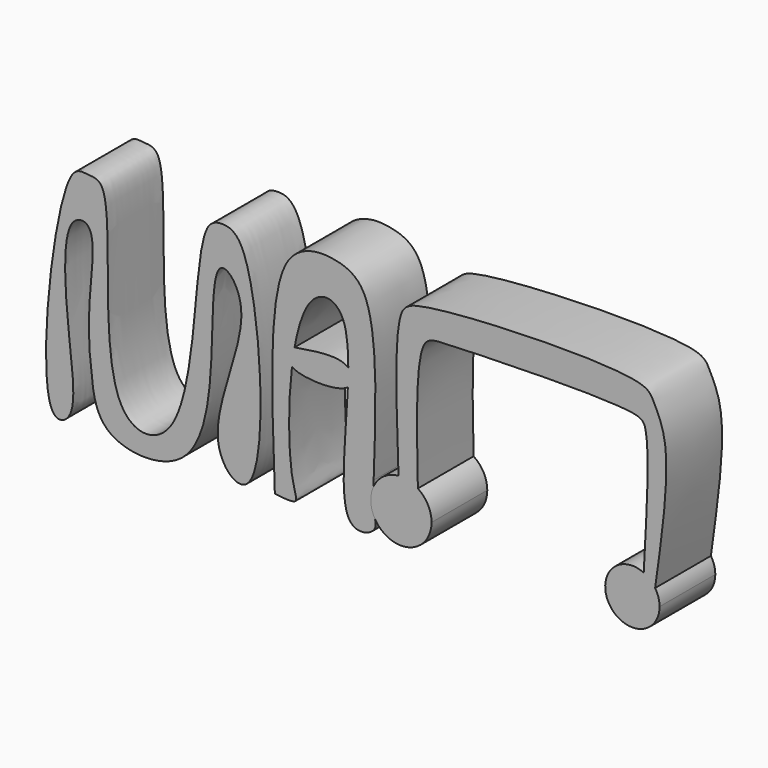
from build123d import *

# Parameters (mm, degrees)
F2_DEPTH = 17.78


with BuildPart() as f2:
    # F1 (on Front) → F2 (new body)
    with BuildSketch(Plane.XZ):
        with BuildLine():
            add(Edge.make_bspline(
                [(-71.9847455621, 0), (-76.2070547956, 6.8961533842), (-70.6906486516, 57.8745627014), (-63.2714090588, 55.9826647163), (-55.0627101064, 56.5420492879), (-62.3558227077, 1.8475951782), (-34.5364508928, 1.1723191666), (-36.5334378917, 54.5351013275), (-28.6665279391, 56.6653461249), (-19.7156643182, 54.3376410746), (-15.7014535082, -10.1592894706), (-35.86855794, 7.5142376112), (-18.8065325204, 36.8433939841), (-31.3648475798, 51.8935289317), (-30.8858573696, 25.2530368224), (-33.9590334855, -4.314190713), (-60.3026769364, -2.8241428236), (-62.2873349579, 12.5254450786), (-63.4700005185, 25.9955618087), (-60.1920474235, 45.8879050467), (-70.120398054, 45.4211628462), (-68.1730528802, 18.2911796201), (-65.3375171868, -0.2833222025), (-70.8562975285, -1.8430556114), (-71.9847455621, 0)],
                knots=[0, 0, 0, 0, 0.0804482391, 0.1036476719, 0.1265366756, 0.2016323851, 0.2397080846, 0.3148821651, 0.3397087766, 0.3685645866, 0.4469301325, 0.4804150813, 0.5429567799, 0.5760379913, 0.6240094853, 0.6818996094, 0.7280130002, 0.7667462577, 0.8097591567, 0.8548615374, 0.8763858627, 0.9316441306, 0.9784995243, 1, 1, 1, 1], degree=3))
        make_face()
    extrude(amount=F2_DEPTH)


with BuildPart() as f2b:
    # F1 (on Front) → F2, piece 2 (new body)
    with BuildSketch(Plane.XZ):
        with BuildLine():
            add(Edge.make_bspline(
                [(-15.3184877709, 0), (-15.3136672035, 0.0813770975), (-12.7167077526, 0.0406885487), (-10.1197483018, 0)],
                knots=[0.3977596645, 0.3977596645, 0.3977596645, 0.3977596645, 1, 1, 1, 1], degree=3))
            add(Edge.make_bspline(
                [(-10.1197483018, 0), (-10.8146586927, -0.5354692152), (-13.0665732318, -0.2677346076), (-15.3184877709, 0)],
                knots=[0.9085942035, 0.9085942035, 0.9085942035, 0.9085942035, 1, 1, 1, 1], degree=3))
        make_face()
        with BuildLine():
            add(Edge.make_bspline(
                [(-15.3184877709, 0), (-16.1562500531, 21.6970974449), (-17.3360686455, 52.2530672126), (-6.2241514195, 58.0647410129), (0.1291782051, 57.8151035789), (11.4020986356, 54.0630100429), (10.5116221301, 28.752621844), (9.8953982815, 11.2374322489)],
                knots=[0, 0, 0, 0, 0.3286248793, 0.4628016214, 0.5739442133, 0.7051626462, 1, 1, 1, 1], degree=3))
            add(Edge.make_bspline(
                [(-15.3184877709, 0), (-15.3136672035, 0.0813770975), (-12.7167077526, 0.0406885487), (-10.1197483018, 0)],
                knots=[0.3977596645, 0.3977596645, 0.3977596645, 0.3977596645, 1, 1, 1, 1], degree=3))
            add(Edge.make_bspline(
                [(-10.9519915207, 29.958335944), (-12.0329630557, 20.8084283228), (-11.7104031892, 4.0553342794), (-9.417019162, 0.5414940199), (-10.1197483018, 0)],
                knots=[0.6702748993, 0.6702748993, 0.6702748993, 0.6702748993, 0.8161599592, 0.9085942035, 0.9085942035, 0.9085942035, 0.9085942035], degree=3))
            add(Edge.make_bspline(
                [(-10.9519915196, 29.9583359533), (-11.7607523899, 30.688098266), (-11.1836866931, 31.6368510167), (-10.600891061, 32.5839482444)],
                knots=[0.8548872069, 0.8548872069, 0.8548872069, 0.8548872069, 1, 1, 1, 1], degree=3))
            add(Edge.make_bspline(
                [(-10.2864038827, 34.5036436078), (-10.3985016951, 33.8744018856), (-10.5032602095, 33.2337108197), (-10.600891061, 32.5839482444)],
                knots=[0.6454490314, 0.6454490314, 0.6454490314, 0.6454490314, 0.6561255465, 0.6561255465, 0.6561255465, 0.6561255465], degree=3))
            add(Edge.make_bspline(
                [(3.4270669285, 34.3979503247), (3.4373661098, 38.6499473), (2.5706685759, 48.5638878297), (-6.1179205413, 49.7749795649), (-9.3716203819, 39.6386229007), (-10.2864038827, 34.5036436078)],
                knots=[0.3753997332, 0.3753997332, 0.3753997332, 0.3753997332, 0.4434720474, 0.5583224437, 0.6454490314, 0.6454490314, 0.6454490314, 0.6454490314], degree=3))
            add(Edge.make_bspline(
                [(3.4270669285, 34.3979503247), (4.7632653734, 33.2673988044), (5.0199310422, 31.1890269734), (3.3181163263, 29.9576495769)],
                knots=[0.3301765693, 0.3301765693, 0.3301765693, 0.3301765693, 0.5180812717, 0.5180812717, 0.5180812717, 0.5180812717], degree=3))
            add(Edge.make_bspline(
                [(9.8953982815, 3.6992600653), (10.3281885841, 2.372697131), (11.3111755019, -0.6402955405), (-0.1944788593, -3.7937626729), (2.8156159564, 18.0942457152), (3.3181163263, 29.9576495769)],
                knots=[0, 0, 0, 0, 0.0771049292, 0.1751266982, 0.3525765375, 0.3525765375, 0.3525765375, 0.3525765375], degree=3))
            add(Edge.make_bspline(
                [(9.8953982815, 11.2374322489), (9.8953982815, 8.7247081877), (9.8953982815, 6.2119841265), (9.8953982815, 3.6992600653)],
                knots=[0, 0, 0, 0, 7.5381721836, 7.5381721836, 7.5381721836, 7.5381721836], degree=3))
        make_face()
        with BuildLine():
            add(Edge.make_bspline(
                [(-10.9519915196, 29.9583359533), (-11.7607523899, 30.688098266), (-11.1836866931, 31.6368510167), (-10.600891061, 32.5839482444)],
                knots=[0.8548872069, 0.8548872069, 0.8548872069, 0.8548872069, 1, 1, 1, 1], degree=3))
            add(Edge.make_bspline(
                [(-10.600891061, 32.5839482444), (-10.7302791006, 31.7228320648), (-10.8471483817, 30.8457830278), (-10.9519915207, 29.958335944)],
                knots=[0.6561255465, 0.6561255465, 0.6561255465, 0.6561255465, 0.6702748993, 0.6702748993, 0.6702748993, 0.6702748993], degree=3))
        make_face()
        with BuildLine():
            add(Edge.make_bspline(
                [(-10.600891061, 32.5839482444), (-10.7302791006, 31.7228320648), (-10.8471483817, 30.8457830278), (-10.9519915207, 29.958335944)],
                knots=[0.6561255465, 0.6561255465, 0.6561255465, 0.6561255465, 0.6702748993, 0.6702748993, 0.6702748993, 0.6702748993], degree=3))
            add(Edge.make_bspline(
                [(3.3181163263, 29.9576495769), (0.2677333955, 27.7504923837), (-9.0748623197, 28.2645619386), (-10.9519915196, 29.9583359533)],
                knots=[0.5180812717, 0.5180812717, 0.5180812717, 0.5180812717, 0.8548872069, 0.8548872069, 0.8548872069, 0.8548872069], degree=3))
            add(Edge.make_bspline(
                [(3.3181163263, 29.9576495769), (3.3827467837, 31.4834936652), (3.4236138326, 32.9723463883), (3.4270669285, 34.3979503247)],
                knots=[0.3525765375, 0.3525765375, 0.3525765375, 0.3525765375, 0.3753997332, 0.3753997332, 0.3753997332, 0.3753997332], degree=3))
            add(Edge.make_bspline(
                [(-10.2864038827, 34.5036436078), (-4.601868743, 35.4445811894), (1.0791671012, 36.3844978538), (3.4270669285, 34.3979503247)],
                knots=[0, 0, 0, 0, 0.3301765693, 0.3301765693, 0.3301765693, 0.3301765693], degree=3))
            add(Edge.make_bspline(
                [(-10.2864038827, 34.5036436078), (-10.3985016951, 33.8744018856), (-10.5032602095, 33.2337108197), (-10.600891061, 32.5839482444)],
                knots=[0.6454490314, 0.6454490314, 0.6454490314, 0.6454490314, 0.6561255465, 0.6561255465, 0.6561255465, 0.6561255465], degree=3))
        make_face()
        with BuildLine():
            add(Edge.make_bspline(
                [(3.3181163263, 29.9576495769), (3.3827467837, 31.4834936652), (3.4236138326, 32.9723463883), (3.4270669285, 34.3979503247)],
                knots=[0.3525765375, 0.3525765375, 0.3525765375, 0.3525765375, 0.3753997332, 0.3753997332, 0.3753997332, 0.3753997332], degree=3))
            add(Edge.make_bspline(
                [(3.4270669285, 34.3979503247), (4.7632653734, 33.2673988044), (5.0199310422, 31.1890269734), (3.3181163263, 29.9576495769)],
                knots=[0.3301765693, 0.3301765693, 0.3301765693, 0.3301765693, 0.5180812717, 0.5180812717, 0.5180812717, 0.5180812717], degree=3))
        make_face()
    extrude(amount=F2_DEPTH)


with BuildPart() as f2c:
    # F0 (on Front) → F2, piece 3 (new body)
    with BuildSketch(Plane.XZ):
        with BuildLine():
            ThreePointArc((16.2368878306, 14.2835204288), (11.6762163676, 0.8405781777), (24.6691973314, 6.5585206604))
            ThreePointArc((24.6691973314, 6.5585206604), (23.7395561688, 10.2400798741), (21.1735263147, 13.0389370914))
            ThreePointArc((21.1735263147, 13.0389370914), (18.8102546269, 14.0778997724), (16.2368878306, 14.2835204288))
        make_face()
        with BuildLine():
            ThreePointArc((16.2368878306, 14.2835204288), (18.8102546269, 14.0778997724), (21.1735263147, 13.0389370914))
            add(Edge.make_bspline(
                [(21.1735263147, 13.0389370914), (20.8445758455, 27.0118147807), (20.3842297593, 47.4488569608), (28.9295511699, 47.9655527144), (76.1915697286, 49.4080413712), (80.6232892088, 45.298183043), (79.5611963711, 26.4812434128), (78.8078997648, 12.8644679109)],
                knots=[0, 0, 0, 0, 0.2482769562, 0.3626552404, 0.6595270106, 0.7531552763, 1, 1, 1, 1], degree=3))
            ThreePointArc((78.8078997648, 12.8644679109), (80.4419335255, 11.8173191807), (81.7218765598, 10.3584385744))
            add(Edge.make_bspline(
                [(16.2368878306, 14.2835204288), (15.7119973323, 28.9056705981), (14.8129895894, 50.8981576536), (21.7435447042, 55.9648103112), (78.6973558369, 57.8238857545), (81.2873753472, 52.1002721608), (86.3062140691, 42.6990080462), (83.5062845238, 23.1771597097), (81.7218765598, 10.3584385744)],
                knots=[0.001542676, 0.001542676, 0.001542676, 0.001542676, 0.2210729991, 0.322956221, 0.5952140809, 0.6775530537, 0.7868353732, 1, 1, 1, 1], degree=3))
        make_face()
        with BuildLine():
            ThreePointArc((81.7218765598, 10.3584385744), (80.4419335255, 11.8173191807), (78.8078997648, 12.8644679109))
            ThreePointArc((78.8078997648, 12.8644679109), (70.0823297097, 2.8120205165), (82.8553740688, 6.5585668199))
            ThreePointArc((82.8553740688, 6.5585668199), (82.5659616482, 8.5412318164), (81.7218765598, 10.3584385744))
        make_face()
    extrude(amount=F2_DEPTH)


solid = Compound([f2.part, f2b.part, f2c.part])
